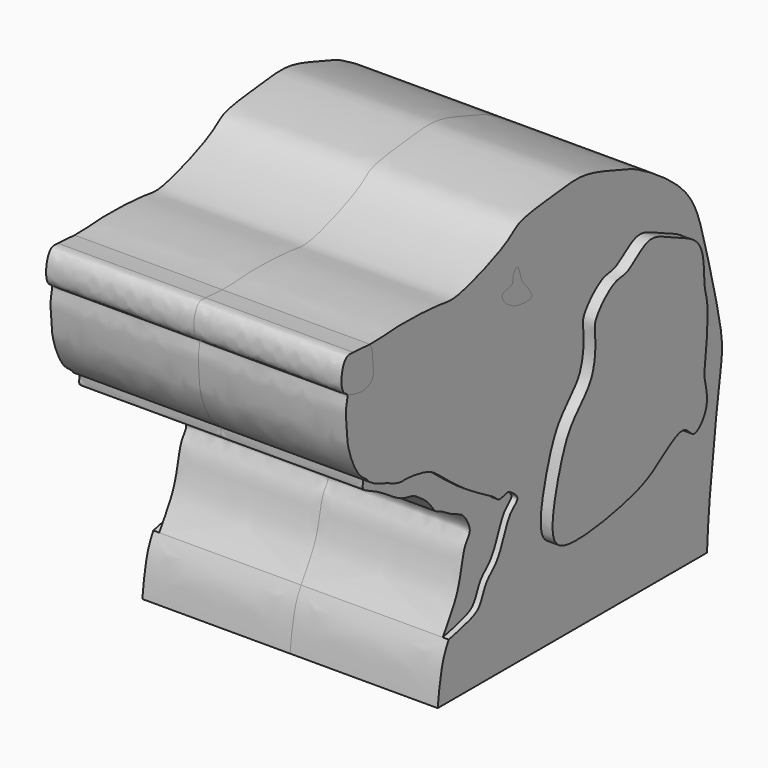
from build123d import *

# Parameters (mm, degrees)
F1_DEPTH = 25
F2_DEPTH = 27
F3_DEPTH = 25
F4_DEPTH = 24
F5_DEPTH = 25


with BuildPart() as f1:
    # F0 (on Right) → F1 (new body, symmetric)
    with BuildSketch(Plane.YZ):
        with BuildLine():
            add(Edge.make_bspline(
                [(-79.7979086637, 68.085372448), (-78.5743440228, 67.9850246502), (-77.3507793818, 67.8846768525), (-76.2437765495, 67.846708443)],
                knots=[0, 0, 0, 0, 0.0320665145, 0.0320665145, 0.0320665145, 0.0320665145], degree=3))
            add(Edge.make_bspline(
                [(-79.7979086637, 68.085372448), (-80.3347930292, 68.134146484), (-81.6352973814, 68.2522926812), (-82.5482249972, 64.9390691075), (-81.9656240902, 62.7105697786), (-81.159805095, 62.4914651625), (-81.0524076223, 62.2533857822)],
                knots=[0, 0, 0, 0, 0.0279858178, 0.0677905341, 0.1014220334, 0.122658185, 0.122658185, 0.122658185, 0.122658185], degree=3))
            add(Edge.make_bspline(
                [(-76.2437765495, 67.846708443), (-76.0223791003, 67.5047412515), (-75.7432887809, 66.8396674092), (-75.6244784019, 64.9406203656), (-75.3031732166, 62.4569800995), (-76.7809574785, 61.6230562188), (-78.2217883851, 61.3750529072), (-79.9256119427, 61.8404726099), (-81.0524076223, 62.2533857822)],
                knots=[0, 0, 0, 0, 0.1295878583, 0.3020082404, 0.491916699, 0.6387503731, 0.7847406861, 1, 1, 1, 1], degree=3))
        make_face()
    extrude(amount=F1_DEPTH, both=True)


with BuildPart() as f2:
    # F0 (on Right) → F2 (new body, symmetric)
    with BuildSketch(Plane.YZ):
        with BuildLine():
            add(Edge.make_bspline(
                [(-10.1778013632, 28.3121336251), (-10.9173163585, 28.3953545167), (-12.1736635548, 31.2331211681), (-18.2887355904, 26.3875774093), (-22.8076578054, 24.0970539675), (-36.4065292544, 21.6238994331), (-41.1249708081, 24.4741193393), (-38.805824931, 34.4422249574), (-36.3490539013, 40.845127777), (-31.0335586034, 44.8399927766), (-30.9532476981, 51.536378133), (-31.5097537562, 53.9023248899), (-26.9919762016, 58.3298333797), (-24.1559200793, 57.5415843007), (-19.7968915745, 62.2913735247), (-14.9131460587, 59.1283476443), (-7.6438420343, 56.9846988179), (-8.2597392942, 49.1913301033), (-6.9569948284, 46.7618216797), (-7.7111950242, 37.9958652559), (-8.2130401752, 35.7769736906), (-6.5825528896, 31.2529479367), (-9.2625593731, 28.2091373981), (-10.1778013632, 28.3121336251)],
                knots=[0, 0, 0, 0, 0.0328758974, 0.0840047941, 0.135142096, 0.2101474074, 0.2522295608, 0.3149204298, 0.3702281218, 0.4216585674, 0.4723464763, 0.5043334324, 0.5524095817, 0.5866239852, 0.6335864821, 0.6806979168, 0.7347370341, 0.7870353368, 0.823649513, 0.8829106096, 0.9157864779, 0.9593119788, 1, 1, 1, 1], degree=3))
        make_face()
    extrude(amount=F2_DEPTH, both=True)


with BuildPart() as f3:
    # F0 (on Right) → F3 (new body, symmetric)
    with BuildSketch(Plane.YZ):
        with BuildLine():
            add(Edge.make_bspline(
                [(-48.1630042195, 63.9068186283), (-48.4363047913, 63.5889658511), (-47.766526394, 62.3616886674), (-46.6958529023, 61.6986399446), (-45.3924128982, 60.8008671471), (-41.4158237185, 60.525987503), (-42.3682511979, 61.9538184734), (-42.9248625154, 62.8718902686), (-44.0913737462, 63.9185347899), (-44.4913643349, 65.5045789145), (-45.0563574003, 67.3164493751), (-46.2170663846, 65.5120420606), (-45.7707880783, 64.1821921394), (-47.8379751383, 64.2848324593), (-48.1630042195, 63.9068186283)],
                knots=[0, 0, 0, 0, 0.0806527372, 0.1578448973, 0.2475679648, 0.3667517323, 0.4318455371, 0.5056134475, 0.5875935268, 0.6782460365, 0.7528871691, 0.8341606549, 0.9040818506, 1, 1, 1, 1], degree=3))
        make_face()
    extrude(amount=F3_DEPTH, both=True)


with BuildPart() as f4:
    # F0 (on Right) → F4 (new body, symmetric)
    with BuildSketch(Plane.YZ):
        with BuildLine():
            add(Edge.make_bspline(
                [(-76.5369012952, 47.4958568811), (-76.0039322971, 47.1288888983), (-74.8999214669, 46.3687384413), (-72.5357836762, 45.7762750987), (-71.5863113944, 45.0781018827), (-69.3900506103, 44.5308313247), (-68.6890384495, 44.8082517098), (-63.9646216301, 44.1390883136), (-61.9829260337, 42.6975753956), (-60.1697720962, 41.2115101616), (-59.1994971037, 40.4162704945)],
                knots=[0, 0, 0, 0, 0.1179854163, 0.2443991638, 0.338784009, 0.4571967274, 0.5335829872, 0.7083676214, 0.8439384555, 1, 1, 1, 1], degree=3))
            add(Edge.make_bspline(
                [(-76.5369012952, 47.4958568811), (-76.3984602885, 47.1388057431), (-76.6939349444, 46.3210325137), (-76.0663966892, 45.4992055633), (-72.7740460289, 44.3597750009), (-68.6348427807, 40.9935154137), (-65.8000293869, 40.8721963117), (-64.9241674711, 40.0728157288), (-62.6958474445, 38.784715001), (-61.1926218026, 36.2654854109), (-60.2520527591, 36.3179359063), (-57.5907990346, 34.3782261091), (-55.5303987603, 33.9845002219), (-54.2618112401, 32.186907718), (-53.5543425121, 30.3165045641), (-55.3045047362, 28.870279248), (-55.8932529131, 23.1461860316), (-57.9736511138, 19.6202911745), (-59.2175236177, 17.7126781823), (-59.5876036379, 17.0651866507)],
                knots=[0.3231938919, 0.3231938919, 0.3231938919, 0.3231938919, 0.3473366744, 0.3678143556, 0.4096637597, 0.4632143319, 0.4994981439, 0.523079366, 0.5598432821, 0.5973756315, 0.6181833833, 0.6583751467, 0.6917975998, 0.7245892348, 0.7543139715, 0.7856136166, 0.8392235, 0.890023086, 0.9140036863, 0.9140036863, 0.9140036863, 0.9140036863], degree=3))
            add(Edge.make_bspline(
                [(-59.1994971037, 40.4162704945), (-57.6634277696, 39.2299526216), (-54.6995301751, 36.9409122695), (-49.9228540389, 34.6167375029), (-49.0252966114, 33.362533415), (-47.5560076645, 33.8910175595), (-46.8730827877, 34.0704576522), (-44.2131679082, 32.1666738563), (-46.608060956, 30.9337102027), (-47.8889879677, 27.8049862395), (-49.2871184364, 24.2240688983), (-51.7884261033, 22.6767785443), (-52.6633633368, 19.75474501), (-54.1027468219, 18.2673633315), (-57.46131117, 17.533150265), (-59.5876036379, 17.0651866507)],
                knots=[0, 0, 0, 0, 0.1125989848, 0.2172492265, 0.269772419, 0.3220110522, 0.3628219355, 0.4340014982, 0.495767798, 0.5821018081, 0.6720073129, 0.7495960334, 0.8269679703, 0.8903230442, 1, 1, 1, 1], degree=3))
        make_face()
    extrude(amount=F4_DEPTH, both=True)


with BuildPart() as f5:
    # F0 (on Right) → F5 (new body, symmetric)
    with BuildSketch(Plane.YZ):
        with BuildLine():
            add(Edge.make_bspline(
                [(-76.2437765495, 67.846708443), (-75.8178558569, 67.8321000511), (-74.0590886173, 67.8089714038), (-71.2005140773, 68.2731122173), (-61.213575812, 67.9505102446), (-58.1790706868, 66.8965330544), (-46.7670326971, 71.0170903294), (-45.0059735242, 73.5744748146), (-36.8623841191, 74.2214651198), (-30.8940615716, 75.223756701), (-23.5541195585, 72.2708486376), (-20.2455331622, 71.5029626545), (-11.7863747651, 66.1946809181), (-7.3816174769, 61.1006557246), (-5.4571303797, 54.4701922265), (-2.7882540622, 44.1376036647), (-1.4160992612, 37.2704593373), (-2.3337694504, 32.5321033567), (-3.6172566572, 22.221783823), (-4.5655134423, 14.1729789548), (-4.8144276881, 9.8060062339), (-4.9294182099, 7.7886027284)],
                knots=[0.0320665145, 0.0320665145, 0.0320665145, 0.0320665145, 0.0444041451, 0.0851637619, 0.1473842316, 0.1872656031, 0.2550098015, 0.2917683967, 0.3469407237, 0.3991990967, 0.453920051, 0.4927544591, 0.5555851405, 0.6084192417, 0.6612026859, 0.7282154591, 0.7811282571, 0.8252364495, 0.8904319187, 0.9493830062, 1, 1, 1, 1], degree=3))
            add(Edge.make_bspline(
                [(-76.2437765495, 67.846708443), (-76.0223791003, 67.5047412515), (-75.7432887809, 66.8396674092), (-75.6244784019, 64.9406203656), (-75.3031732166, 62.4569800995), (-76.7809574785, 61.6230562188), (-78.2217883851, 61.3750529072), (-79.9256119427, 61.8404726099), (-81.0524076223, 62.2533857822)],
                knots=[0, 0, 0, 0, 0.1295878583, 0.3020082404, 0.491916699, 0.6387503731, 0.7847406861, 1, 1, 1, 1], degree=3))
            add(Edge.make_bspline(
                [(-81.0524076223, 62.2533857822), (-80.8981311864, 61.9113848268), (-81.5385480339, 60.3365208181), (-81.1092179996, 56.8462804473), (-81.0406822506, 54.3206136116), (-78.9085921187, 48.8827185412), (-76.7427775588, 48.0268292856), (-76.5369012952, 47.4958568811)],
                knots=[0.122658185, 0.122658185, 0.122658185, 0.122658185, 0.1531639101, 0.1956385535, 0.2333605273, 0.2872910479, 0.3231938919, 0.3231938919, 0.3231938919, 0.3231938919], degree=3))
            add(Edge.make_bspline(
                [(-76.5369012952, 47.4958568811), (-76.0039322971, 47.1288888983), (-74.8999214669, 46.3687384413), (-72.5357836762, 45.7762750987), (-71.5863113944, 45.0781018827), (-69.3900506103, 44.5308313247), (-68.6890384495, 44.8082517098), (-63.9646216301, 44.1390883136), (-61.9829260337, 42.6975753956), (-60.1697720962, 41.2115101616), (-59.1994971037, 40.4162704945)],
                knots=[0, 0, 0, 0, 0.1179854163, 0.2443991638, 0.338784009, 0.4571967274, 0.5335829872, 0.7083676214, 0.8439384555, 1, 1, 1, 1], degree=3))
            add(Edge.make_bspline(
                [(-59.1994971037, 40.4162704945), (-57.6634277696, 39.2299526216), (-54.6995301751, 36.9409122695), (-49.9228540389, 34.6167375029), (-49.0252966114, 33.362533415), (-47.5560076645, 33.8910175595), (-46.8730827877, 34.0704576522), (-44.2131679082, 32.1666738563), (-46.608060956, 30.9337102027), (-47.8889879677, 27.8049862395), (-49.2871184364, 24.2240688983), (-51.7884261033, 22.6767785443), (-52.6633633368, 19.75474501), (-54.1027468219, 18.2673633315), (-57.46131117, 17.533150265), (-59.5876036379, 17.0651866507)],
                knots=[0, 0, 0, 0, 0.1125989848, 0.2172492265, 0.269772419, 0.3220110522, 0.3628219355, 0.4340014982, 0.495767798, 0.5821018081, 0.6720073129, 0.7495960334, 0.8269679703, 0.8903230442, 1, 1, 1, 1], degree=3))
            add(Edge.make_bspline(
                [(-59.5876036379, 17.0651866507), (-59.9731115259, 16.3907025415), (-61.1926386264, 13.9351782964), (-61.61152517, 10.3396781351), (-61.9087330997, 7.7886027284)],
                knots=[0.9140036863, 0.9140036863, 0.9140036863, 0.9140036863, 0.938983988, 1, 1, 1, 1], degree=3))
            Line((-61.9087330997, 7.7886027284), (-4.9294182099, 7.7886027284))
        make_face()
        with BuildLine():
            add(Edge.make_bspline(
                [(-48.1630042195, 63.9068186283), (-48.4363047913, 63.5889658511), (-47.766526394, 62.3616886674), (-46.6958529023, 61.6986399446), (-45.3924128982, 60.8008671471), (-41.4158237185, 60.525987503), (-42.3682511979, 61.9538184734), (-42.9248625154, 62.8718902686), (-44.0913737462, 63.9185347899), (-44.4913643349, 65.5045789145), (-45.0563574003, 67.3164493751), (-46.2170663846, 65.5120420606), (-45.7707880783, 64.1821921394), (-47.8379751383, 64.2848324593), (-48.1630042195, 63.9068186283)],
                knots=[0, 0, 0, 0, 0.0806527372, 0.1578448973, 0.2475679648, 0.3667517323, 0.4318455371, 0.5056134475, 0.5875935268, 0.6782460365, 0.7528871691, 0.8341606549, 0.9040818506, 1, 1, 1, 1], degree=3))
        make_face(mode=Mode.SUBTRACT)
        with BuildLine():
            add(Edge.make_bspline(
                [(-10.1778013632, 28.3121336251), (-10.9173163585, 28.3953545167), (-12.1736635548, 31.2331211681), (-18.2887355904, 26.3875774093), (-22.8076578054, 24.0970539675), (-36.4065292544, 21.6238994331), (-41.1249708081, 24.4741193393), (-38.805824931, 34.4422249574), (-36.3490539013, 40.845127777), (-31.0335586034, 44.8399927766), (-30.9532476981, 51.536378133), (-31.5097537562, 53.9023248899), (-26.9919762016, 58.3298333797), (-24.1559200793, 57.5415843007), (-19.7968915745, 62.2913735247), (-14.9131460587, 59.1283476443), (-7.6438420343, 56.9846988179), (-8.2597392942, 49.1913301033), (-6.9569948284, 46.7618216797), (-7.7111950242, 37.9958652559), (-8.2130401752, 35.7769736906), (-6.5825528896, 31.2529479367), (-9.2625593731, 28.2091373981), (-10.1778013632, 28.3121336251)],
                knots=[0, 0, 0, 0, 0.0328758974, 0.0840047941, 0.135142096, 0.2101474074, 0.2522295608, 0.3149204298, 0.3702281218, 0.4216585674, 0.4723464763, 0.5043334324, 0.5524095817, 0.5866239852, 0.6335864821, 0.6806979168, 0.7347370341, 0.7870353368, 0.823649513, 0.8829106096, 0.9157864779, 0.9593119788, 1, 1, 1, 1], degree=3))
        make_face(mode=Mode.SUBTRACT)
    extrude(amount=F5_DEPTH, both=True)


solid = Compound([f1.part, f2.part, f3.part, f4.part, f5.part])
